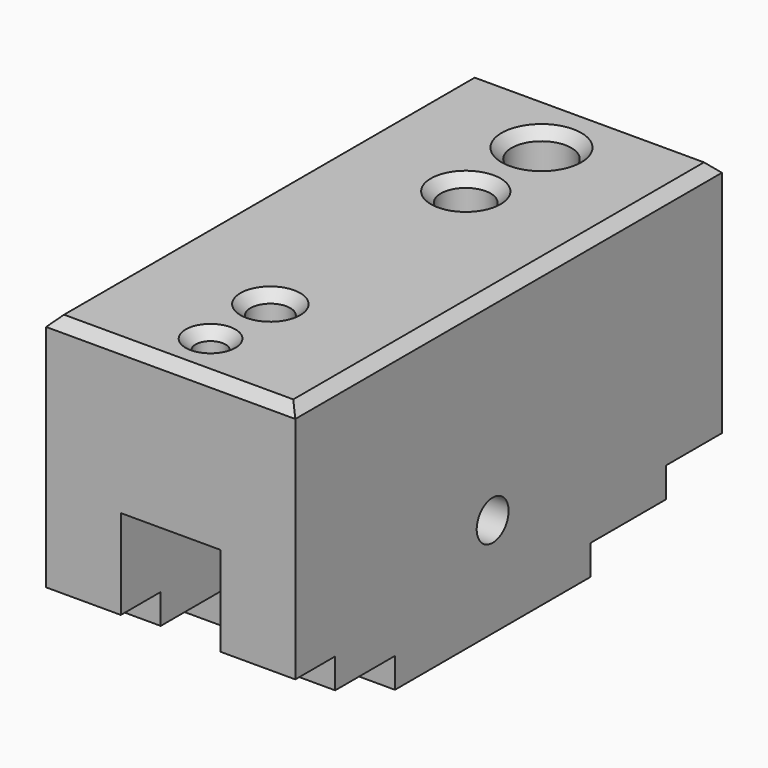
from build123d import *

# Parameters (mm, degrees)
F0_W     = 25
F0_H     = 53.5
F0_R     = 1.5
F0_R_2   = 2
F0_R_3   = 2.5
F0_R_4   = 3
F1_DEPTH = 30
F2_W     = 10
F2_H     = 15
F3_DEPTH = 53.501
F4_W     = 7
F4_H     = 3
F4_W_2   = 5
F5_DEPTH = 25.001
F6_SIZE  = 1
F7_R     = 2
F8_DEPTH = 25.001


with BuildPart() as f1:
    # F0 (on Top) → F1 (new body)
    with BuildSketch(Plane.XY):
        with Locations((12.5, 26.75)):
            Rectangle(F0_W, F0_H)
        with Locations((12.5, 5)):
            Circle(F0_R, mode=Mode.SUBTRACT)
        with Locations((12.5, 12.5)):
            Circle(F0_R_2, mode=Mode.SUBTRACT)
        with Locations((12.5, 37)):
            Circle(F0_R_3, mode=Mode.SUBTRACT)
        with Locations((12.5, 46.5)):
            Circle(F0_R_4, mode=Mode.SUBTRACT)
    extrude(amount=-F1_DEPTH)

    # F2 (on face) → F3 (cut, through all)
    with BuildSketch(Plane.XZ):
        with Locations((12.5, -22.5)):
            Rectangle(F2_W, F2_H)
    extrude(amount=-F3_DEPTH, mode=Mode.SUBTRACT)

    # F4 (on face) → F5 (cut, through all)
    with BuildSketch(Plane.YZ.offset(25)):
        with Locations((50, -25.5)):
            Rectangle(F4_W, F4_H)
        Polygon((37, -30), (53.5, -30), (53.5, -27), (46.5, -27), (37, -27), align=None)
        Polygon((0, -30), (12.5, -30), (12.5, -27), (5, -27), (0, -27), align=None)
        with Locations((2.5, -25.5)):
            Rectangle(F4_W_2, F4_H)
    extrude(amount=-F5_DEPTH, mode=Mode.SUBTRACT)

    # F6
    f6_edges = [f1.edges().sort_by_distance(p)[0] for p in [
        (11, 5, 0),
        (10.5, 12.5, 0),
        (10, 37, 0),
        (9.5, 46.5, 0),
        (12.5, 0, 0),
        (0, 26.75, 0),
        (25, 26.75, 0),
        (12.5, 53.5, 0),
    ]]
    chamfer(f6_edges, length=F6_SIZE)

    # F7 (on face) → F8 (cut, through all)
    with BuildSketch(Plane.YZ.offset(25)):
        with Locations((24.75, -20)):
            Circle(F7_R)
    extrude(amount=-F8_DEPTH, mode=Mode.SUBTRACT)


solid = f1.part
